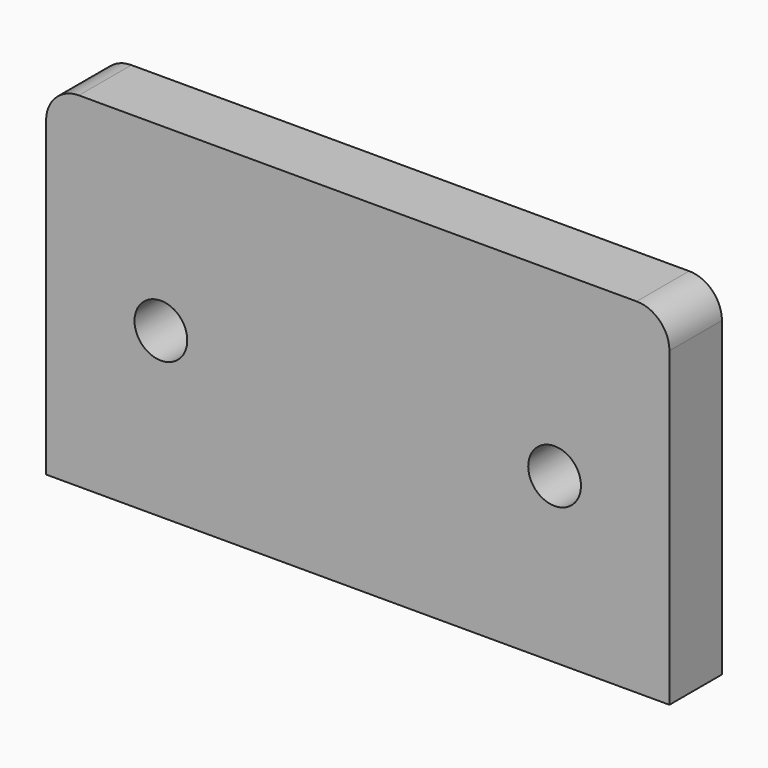
from build123d import *

# Parameters (mm, degrees)
F1_DEPTH = 6.35
F2_D     = 5.1054
F3_R     = 3.175


with BuildPart() as f1:
    # F0 (on Front) → F1 (new body)
    with BuildSketch(Plane.XZ):
        Polygon((-30.1625, 0), (0, 0), (30.1625, 0), (30.1625, 33.3375), (0, 33.3375), (-30.1625, 33.3375), align=None)
    extrude(amount=F1_DEPTH)

    # F2 (through all)
    with Locations(Plane(origin=(0, 0, 0), x_dir=(1, 0, 0), z_dir=(0, 1, 0))):
        with Locations((-19.05, -15.875), (19.05, -15.875)):
            Hole(F2_D / 2)

    # F3
    f3_edges = [f1.edges().sort_by_distance(p)[0] for p in [
        (-30.1625, -3.175, 33.3375),
        (30.1625, -3.175, 33.3375),
    ]]
    fillet(f3_edges, radius=F3_R)


solid = f1.part
